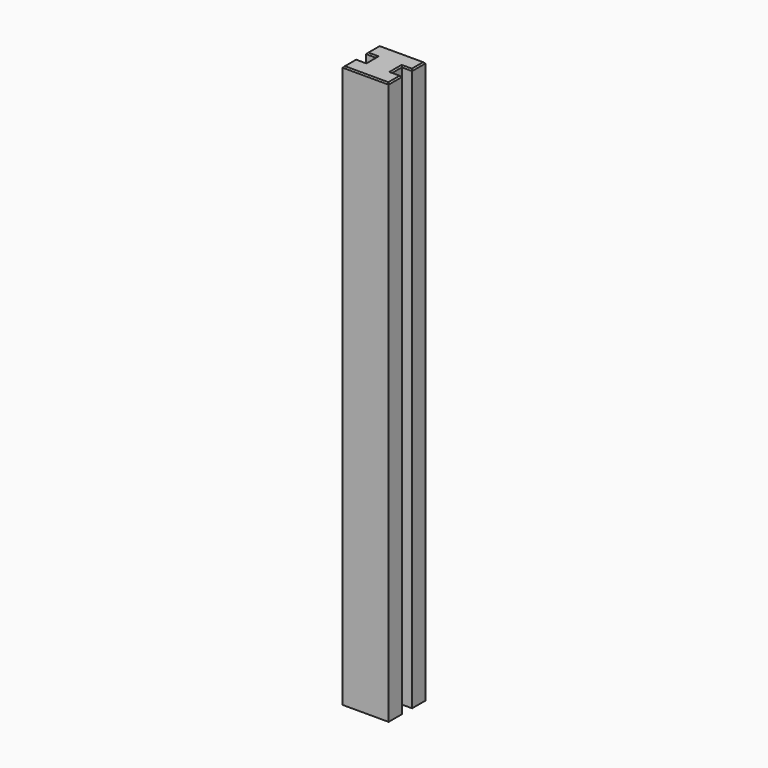
from build123d import *

# Parameters (mm, degrees)
F1_DEPTH = 2200
F2_SIZE  = 5


with BuildPart() as f1:
    # F0 (on Top) → F1 (new body)
    with BuildSketch(Plane.XY):
        Polygon((0, 65), (0, 0), (180, 0), (180, 65), (140, 65), (140, 115), (180, 115), (180, 180), (0, 180), (0, 115), (40, 115), (40, 65), align=None)
    extrude(amount=F1_DEPTH)

    # F2
    f2_edges = [f1.edges().sort_by_distance(p)[0] for p in [
        (90, 0, 2200),
        (0, 32.5, 2200),
        (20, 65, 2200),
        (40, 90, 2200),
        (20, 115, 2200),
        (0, 147.5, 2200),
        (90, 180, 2200),
        (180, 147.5, 2200),
        (160, 115, 2200),
        (180, 32.5, 2200),
        (160, 65, 2200),
        (140, 90, 2200),
    ]]
    chamfer(f2_edges, length=F2_SIZE)


solid = f1.part
